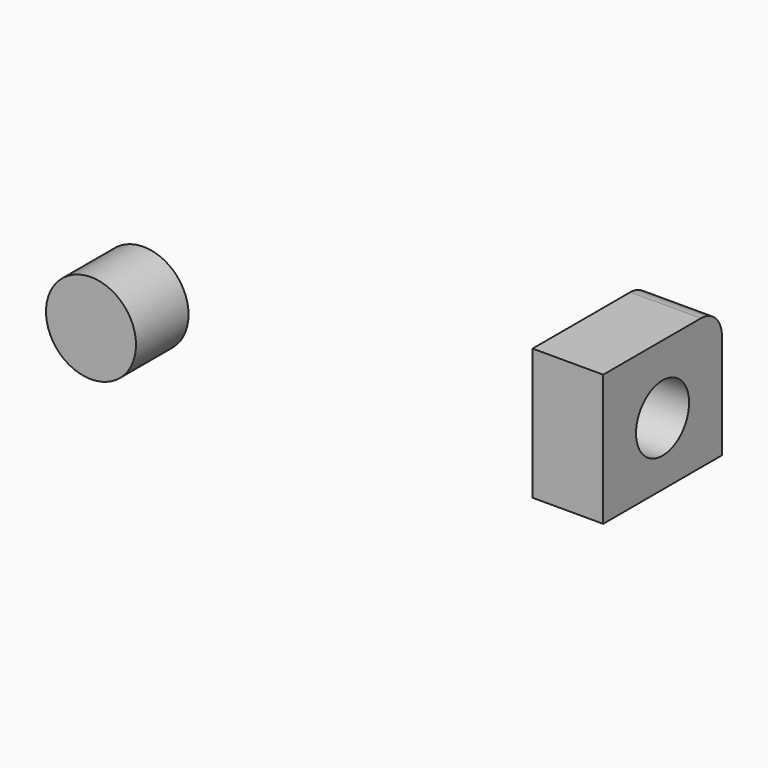
from build123d import *

# Parameters (mm, degrees)
F0_W     = 68.3006
F0_H     = 143.51
F1_DEPTH = 127
F2_R     = 25.4
F3_R     = 32.076925
F4_DEPTH = 68.3016
F5_R     = 43.524008
F6_DEPTH = 63.5


with BuildPart() as f1:
    # F0 (on Top) → F1 (new body)
    with BuildSketch(Plane.XY):
        Rectangle(F0_W, F0_H)
    extrude(amount=F1_DEPTH)

    # F2
    f2_edges = [f1.edges().sort_by_distance(p)[0] for p in [
        (0, 71.755, 127),
    ]]
    fillet(f2_edges, radius=F2_R)

    # F3 (on face) → F4 (cut, through all)
    with BuildSketch(Plane(origin=(-34.1503, 0, 0), x_dir=(0, -1, 0), z_dir=(-1, 0, 0))):
        with Locations((0, 60.969625)):
            Circle(F3_R)
    extrude(amount=-F4_DEPTH, mode=Mode.SUBTRACT)


with BuildPart() as f6:
    # F5 (on Front) → F6 (new body)
    with BuildSketch(Plane.XZ):
        with Locations((-467.755824, 0)):
            Circle(F5_R)
    extrude(amount=F6_DEPTH)


solid = Compound([f1.part, f6.part])
